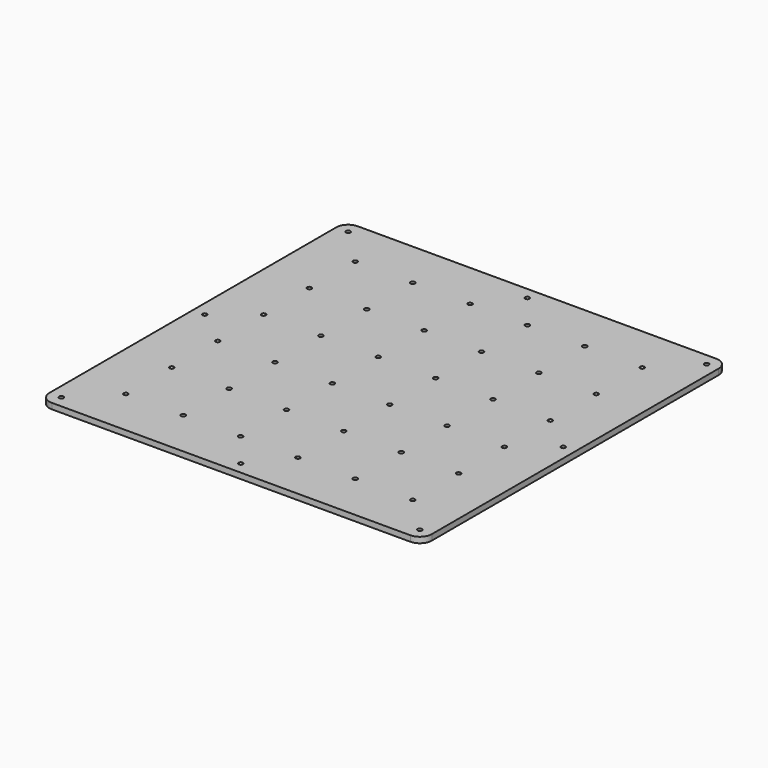
from build123d import *

# Parameters (mm, degrees)
SKETCH_W                           = 200
SKETCH_H                           = 200
PAD_DEPTH                          = 3
SKETCH002_R                        = 1.15
POCKET001_DEPTH                    = 568.718244
SKETCH002_LINEARPATTERN002_2_R     = 1.15
POCKET001_LINEARPATTERN002_2_DEPTH = 568.718244
SKETCH002_LINEARPATTERN002_3_R     = 1.15
POCKET001_LINEARPATTERN002_3_DEPTH = 568.718244
LINEARPATTERN003_COUNT             = 3
LINEARPATTERN003_PITCH             = 60
SKETCH003_R                        = 1.15
POCKET002_DEPTH                    = 568.718244
SKETCH003_LINEARPATTERN004_2_R     = 1.15
POCKET002_LINEARPATTERN004_2_DEPTH = 568.718244
POLARPATTERN_COUNT                 = 4
FILLET_R                           = 6.25


with BuildPart() as part:
    # Sketch → Pad (new body)
    with BuildSketch(Plane.XY):
        with Locations((87.5, 87.5)):
            Rectangle(SKETCH_W, SKETCH_H)
    extrude(amount=-PAD_DEPTH)

    # Sketch002 → Pocket001 (cut, through all)
    with BuildSketch(Plane.XY):
        with Locations((12.5, 12.5)):
            Circle(SKETCH002_R)
        with Locations((12.5, 42.5)):
            Circle(SKETCH002_R)
        with Locations((42.5, 42.5)):
            Circle(SKETCH002_R)
        with Locations((42.5, 12.5)):
            Circle(SKETCH002_R)
    pocket001 = extrude(amount=-POCKET001_DEPTH, mode=Mode.SUBTRACT)

    # Sketch002 LinearPattern002 2 → Pocket001 LinearPattern002 2 (cut, through all)
    with BuildSketch(Plane(origin=(60, 0, 0), x_dir=(1, 0, 0), z_dir=(0, 0, 1))):
        with Locations((12.5, 12.5)):
            Circle(SKETCH002_LINEARPATTERN002_2_R)
        with Locations((12.5, 42.5)):
            Circle(SKETCH002_LINEARPATTERN002_2_R)
        with Locations((42.5, 42.5)):
            Circle(SKETCH002_LINEARPATTERN002_2_R)
        with Locations((42.5, 12.5)):
            Circle(SKETCH002_LINEARPATTERN002_2_R)
    pocket001_linearpattern002_2 = extrude(amount=-POCKET001_LINEARPATTERN002_2_DEPTH, mode=Mode.SUBTRACT)

    # Sketch002 LinearPattern002 3 → Pocket001 LinearPattern002 3 (cut, through all)
    with BuildSketch(Plane(origin=(120, 0, 0), x_dir=(1, 0, 0), z_dir=(0, 0, 1))):
        with Locations((12.5, 12.5)):
            Circle(SKETCH002_LINEARPATTERN002_3_R)
        with Locations((12.5, 42.5)):
            Circle(SKETCH002_LINEARPATTERN002_3_R)
        with Locations((42.5, 42.5)):
            Circle(SKETCH002_LINEARPATTERN002_3_R)
        with Locations((42.5, 12.5)):
            Circle(SKETCH002_LINEARPATTERN002_3_R)
    pocket001_linearpattern002_3 = extrude(amount=-POCKET001_LINEARPATTERN002_3_DEPTH, mode=Mode.SUBTRACT)

    # LinearPattern003: Pocket001, Pocket001 LinearPattern002 2, Pocket001 LinearPattern002 3 ×3
    with Locations(*[(0, i * LINEARPATTERN003_PITCH, 0) for i in range(1, LINEARPATTERN003_COUNT)]):
        add(pocket001, mode=Mode.SUBTRACT)
        add(pocket001_linearpattern002_2, mode=Mode.SUBTRACT)
        add(pocket001_linearpattern002_3, mode=Mode.SUBTRACT)

    # Sketch003 → Pocket002 (cut, through all)
    with BuildSketch(Plane(origin=(87.5, 87.5, 0), x_dir=(1, 0, 0), z_dir=(0, 0, 1))):
        with Locations((-93.75, -93.75)):
            Circle(SKETCH003_R)
    pocket002 = extrude(amount=-POCKET002_DEPTH, mode=Mode.SUBTRACT)

    # Sketch003 LinearPattern004 2 → Pocket002 LinearPattern004 2 (cut, through all)
    with BuildSketch(Plane(origin=(181.25, 87.5, 0), x_dir=(1, 0, 0), z_dir=(0, 0, 1))):
        with Locations((-93.75, -93.75)):
            Circle(SKETCH003_LINEARPATTERN004_2_R)
    pocket002_linearpattern004_2 = extrude(amount=-POCKET002_LINEARPATTERN004_2_DEPTH, mode=Mode.SUBTRACT)

    # PolarPattern: Pocket002, Pocket002 LinearPattern004 2 ×4 about axis
    polarpattern_axis = Axis((87.5, 87.5, 0), (0, 0, 1))
    for i in range(1, POLARPATTERN_COUNT):
        add(pocket002.rotate(polarpattern_axis, i * 360 / POLARPATTERN_COUNT), mode=Mode.SUBTRACT)
        add(pocket002_linearpattern004_2.rotate(polarpattern_axis, i * 360 / POLARPATTERN_COUNT), mode=Mode.SUBTRACT)

    # Fillet
    fillet_edges = [part.edges().sort_by_distance(p)[0] for p in [
        (-12.5, 187.5, -1.5),
        (-12.5, -12.5, -1.5),
        (187.5, -12.5, -1.5),
        (187.5, 187.5, -1.5),
    ]]
    fillet(fillet_edges, radius=FILLET_R)


solid = part.part
